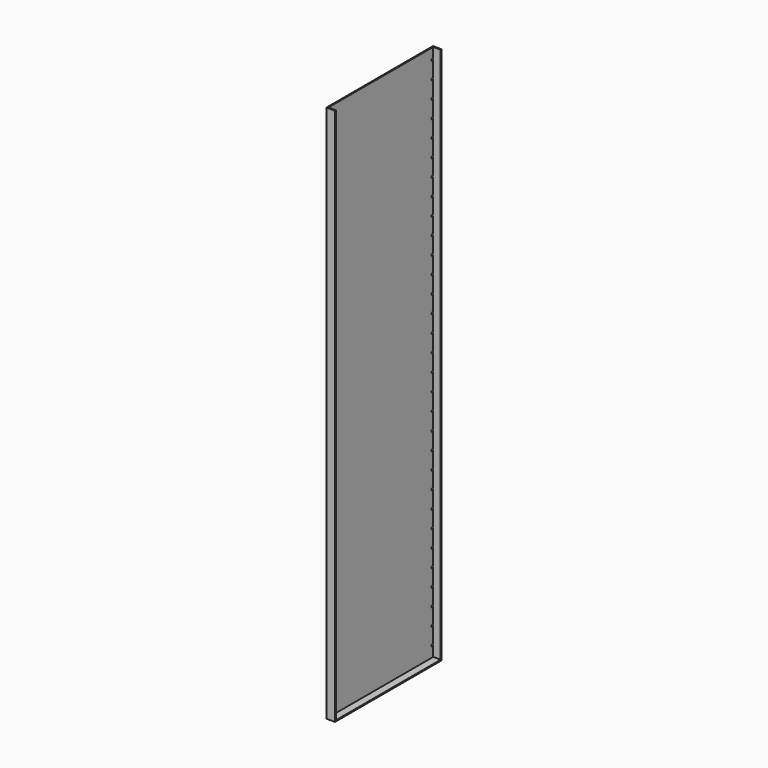
from build123d import *

# Parameters (mm, degrees)
F1_DEPTH = 1587.5
F2_R     = 3.175
F3_DEPTH = 25.401
F4_W     = 25.4
F4_H     = 393.7
F5_DEPTH = 3.175


with BuildPart() as f1:
    # F0 (on Top) → F1 (new body)
    with BuildSketch(Plane.XY):
        Polygon((25.4, 196.85), (0, 196.85), (0, -196.85), (25.4, -196.85), (25.4, -193.675), (3.175, -193.675), (3.175, 193.675), (25.4, 193.675), align=None)
    extrude(amount=F1_DEPTH)

    # F2 (on face) → F3 (cut, through all)
    with BuildSketch(Plane(origin=(0, 0, 0), x_dir=(0, -1, 0), z_dir=(-1, 0, 0))):
        with BuildLine():
            Line((184.15, 793.75), (190.5, 793.75))
            ThreePointArc((190.5, 793.75), (187.325, 796.925), (184.15, 793.75))
        make_face()
        with BuildLine():
            ThreePointArc((-193.675, 793.75), (-190.5, 790.575), (-187.325, 793.75))
            Line((-187.325, 793.75), (-193.675, 793.75))
        make_face()
        with BuildLine():
            Line((-193.675, 793.75), (-187.325, 793.75))
            ThreePointArc((-187.325, 793.75), (-190.5, 796.925), (-193.675, 793.75))
        make_face()
        with BuildLine():
            ThreePointArc((184.15, 793.75), (187.325, 790.575), (190.5, 793.75))
            Line((190.5, 793.75), (184.15, 793.75))
        make_face()
        with Locations((187.325, 844.55)):
            Circle(F2_R)
        with Locations((187.325, 895.35)):
            Circle(F2_R)
        with Locations((187.325, 946.15)):
            Circle(F2_R)
        with Locations((187.325, 996.95)):
            Circle(F2_R)
        with Locations((187.325, 1047.75)):
            Circle(F2_R)
        with Locations((187.325, 1098.55)):
            Circle(F2_R)
        with Locations((187.325, 1149.35)):
            Circle(F2_R)
        with Locations((187.325, 1200.15)):
            Circle(F2_R)
        with Locations((187.325, 1250.95)):
            Circle(F2_R)
        with Locations((187.325, 1301.75)):
            Circle(F2_R)
        with Locations((187.325, 1352.55)):
            Circle(F2_R)
        with Locations((187.325, 1403.35)):
            Circle(F2_R)
        with Locations((187.325, 1454.15)):
            Circle(F2_R)
        with Locations((187.325, 1504.95)):
            Circle(F2_R)
        with Locations((-190.5, 844.55)):
            Circle(F2_R)
        with Locations((-190.5, 895.35)):
            Circle(F2_R)
        with Locations((-190.5, 946.15)):
            Circle(F2_R)
        with Locations((-190.5, 996.95)):
            Circle(F2_R)
        with Locations((-190.5, 1047.75)):
            Circle(F2_R)
        with Locations((-190.5, 1098.55)):
            Circle(F2_R)
        with Locations((-190.5, 1149.35)):
            Circle(F2_R)
        with Locations((-190.5, 1200.15)):
            Circle(F2_R)
        with Locations((-190.5, 1250.95)):
            Circle(F2_R)
        with Locations((-190.5, 1301.75)):
            Circle(F2_R)
        with Locations((-190.5, 1352.55)):
            Circle(F2_R)
        with Locations((-190.5, 1403.35)):
            Circle(F2_R)
        with Locations((-190.5, 1454.15)):
            Circle(F2_R)
        with Locations((-190.5, 1504.95)):
            Circle(F2_R)
        with Locations((187.325, 742.95)):
            Circle(F2_R)
        with Locations((187.325, 692.15)):
            Circle(F2_R)
        with Locations((187.325, 641.35)):
            Circle(F2_R)
        with Locations((187.325, 590.55)):
            Circle(F2_R)
        with Locations((187.325, 539.75)):
            Circle(F2_R)
        with Locations((187.325, 488.95)):
            Circle(F2_R)
        with Locations((187.325, 438.15)):
            Circle(F2_R)
        with Locations((187.325, 387.35)):
            Circle(F2_R)
        with Locations((187.325, 336.55)):
            Circle(F2_R)
        with Locations((187.325, 285.75)):
            Circle(F2_R)
        with Locations((187.325, 234.95)):
            Circle(F2_R)
        with Locations((187.325, 184.15)):
            Circle(F2_R)
        with Locations((187.325, 133.35)):
            Circle(F2_R)
        with Locations((187.325, 82.55)):
            Circle(F2_R)
        with Locations((-190.5, 742.95)):
            Circle(F2_R)
        with Locations((-190.5, 692.15)):
            Circle(F2_R)
        with Locations((-190.5, 641.35)):
            Circle(F2_R)
        with Locations((-190.5, 590.55)):
            Circle(F2_R)
        with Locations((-190.5, 539.75)):
            Circle(F2_R)
        with Locations((-190.5, 488.95)):
            Circle(F2_R)
        with Locations((-190.5, 438.15)):
            Circle(F2_R)
        with Locations((-190.5, 387.35)):
            Circle(F2_R)
        with Locations((-190.5, 336.55)):
            Circle(F2_R)
        with Locations((-190.5, 285.75)):
            Circle(F2_R)
        with Locations((-190.5, 234.95)):
            Circle(F2_R)
        with Locations((-190.5, 184.15)):
            Circle(F2_R)
        with Locations((-190.5, 133.35)):
            Circle(F2_R)
        with Locations((-190.5, 82.55)):
            Circle(F2_R)
        with Locations((187.325, 31.75)):
            Circle(F2_R)
        with Locations((-190.5, 31.75)):
            Circle(F2_R)
        with Locations((187.325, 1555.75)):
            Circle(F2_R)
        with Locations((-190.5, 1555.75)):
            Circle(F2_R)
    extrude(amount=-F3_DEPTH, mode=Mode.SUBTRACT)

    # F4 (on face) → F5 (join)
    with BuildSketch(Plane(origin=(0, 0, 0), x_dir=(1, 0, 0), z_dir=(0, 0, -1))):
        with Locations((12.7, 0)):
            Rectangle(F4_W, F4_H)
    extrude(amount=F5_DEPTH)


solid = f1.part
